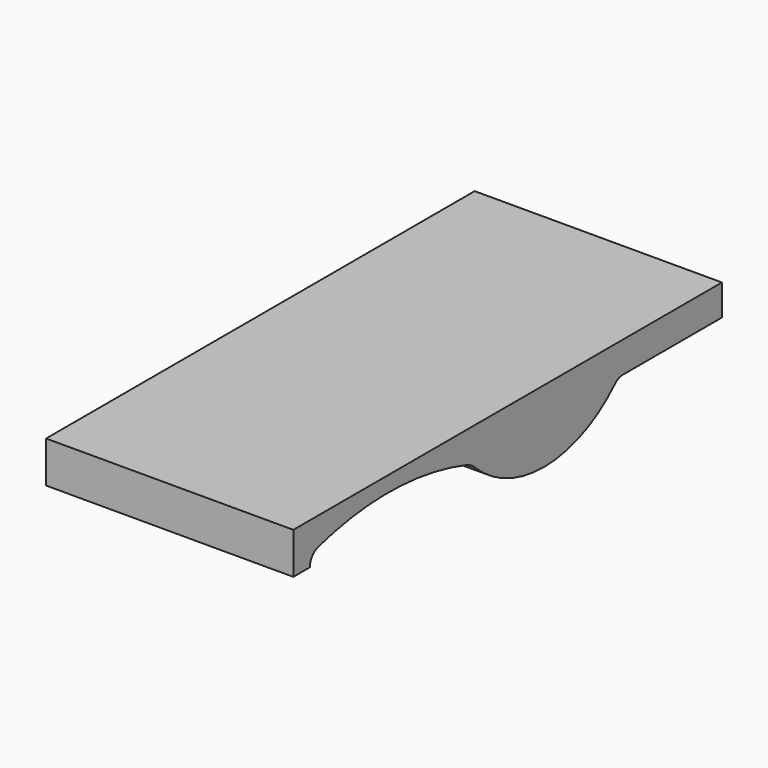
from build123d import *

# Parameters (mm, degrees)
F1_W     = 660.4
F1_H     = 107.95
F2_DEPTH = 304.8
F3_DEPTH = 304.801


with BuildPart() as f2:
    # F1 (on Right) → F2 (new body)
    with BuildSketch(Plane.YZ):
        with Locations((330.2, 53.975)):
            Rectangle(F1_W, F1_H)
    extrude(amount=F2_DEPTH)

    # F0 (on Right) → F3 (cut, through all)
    with BuildSketch(Plane.YZ):
        with BuildLine():
            Line((0, 0), (25.4, 0))
            Line((25.4, 0), (635, 0))
            Line((635, 0), (660.4, 0))
            Line((660.4, 0), (660.4, 69.85))
            Line((660.4, 69.85), (635, 69.85))
            Line((635, 69.85), (508, 69.85))
            ThreePointArc((508, 69.85), (501.120084, 68.473081), (495.3, 64.554436))
            ThreePointArc((495.3, 64.554436), (387.828804, 19.05896), (279.4, 62.222496))
            ThreePointArc((279.4, 62.222496), (273.485985, 66.762175), (266.7, 69.85))
            ThreePointArc((266.7, 69.85), (152.689214, 88.843713), (38.1, 73.726423))
            ThreePointArc((38.1, 73.726423), (28.93043, 67.423949), (25.4, 56.872255))
            Line((25.4, 56.872255), (0, 56.872255))
            Line((0, 56.872255), (0, 0))
        make_face()
    extrude(amount=F3_DEPTH, mode=Mode.SUBTRACT)


solid = f2.part
